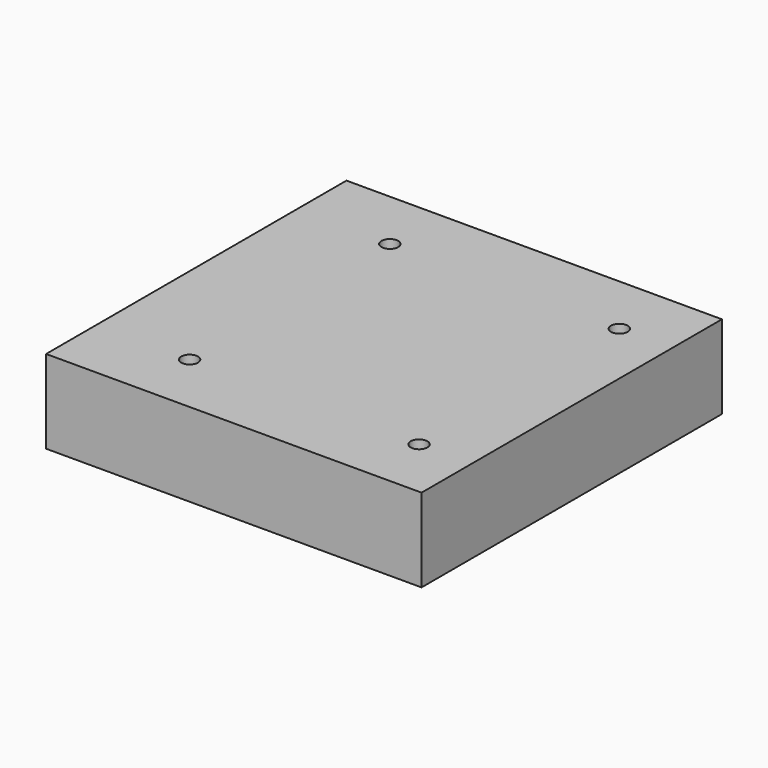
from build123d import *

# Parameters (mm, degrees)
F0_W     = 114.3
F0_H     = 114.3
F1_DEPTH = 25.4
F3_D     = 5.1054
F3_DEPTH = 16.51
F3_TIP   = 1.5338169022


with BuildPart() as f1:
    # F0 (on Top) → F1 (new body)
    with BuildSketch(Plane.XY):
        Rectangle(F0_W, F0_H)
    extrude(amount=F1_DEPTH)

    # F3
    with Locations(Plane.XY.offset(25.4)):
        with Locations((-28.702, 38.1), (41.148, 38.1), (-28.702, -38.1), (41.148, -38.1)):
            Hole(F3_D / 2, depth=F3_DEPTH)
            with Locations((0, 0, -(F3_DEPTH + F3_TIP / 2))):  # 118° drill point
                Cone(0, F3_D / 2, F3_TIP, mode=Mode.SUBTRACT)


solid = f1.part
